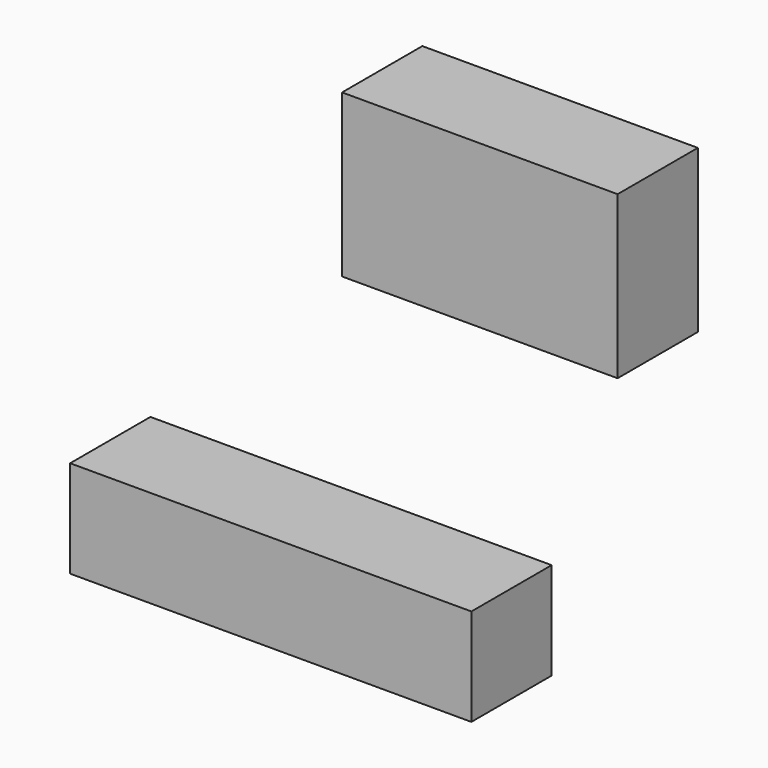
from build123d import *

# Parameters (mm, degrees)
F0_W     = 69.7667
F0_H     = 41.039243
F0_W_2   = 101.6
F0_H_2   = 24.62355
F1_DEPTH = 25.4


with BuildPart() as f1:
    # F0 (on Front) → F1 (new body)
    with BuildSketch(Plane.XZ):
        with Locations((52.940637, 96.85263)):
            Rectangle(F0_W, F0_H)
        Rectangle(F0_W_2, F0_H_2)
    extrude(amount=F1_DEPTH)


solid = f1.part
